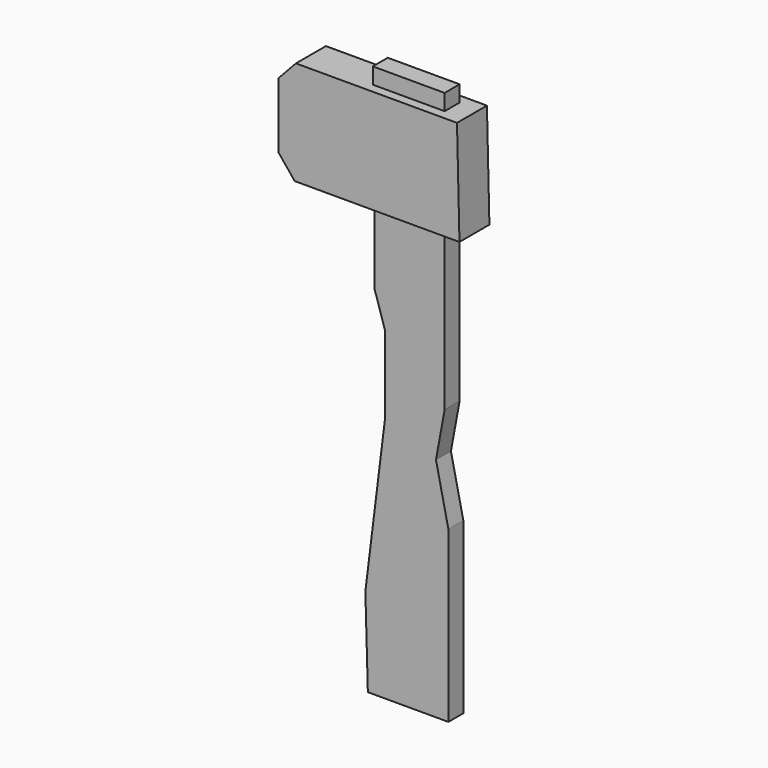
from build123d import *

# Parameters (mm, degrees)
F0_W     = 11.703859
F0_H     = 2.623275
F1_DEPTH = 1.524
F2_DEPTH = 3.048


with BuildPart() as f1:
    # F0 (on Front) → F1 (new body, symmetric)
    with BuildSketch(Plane.XZ):
        Polygon((-6.860883, -3.329546), (-6.457301, -17.656684), (6.659092, -17.656684), (6.659092, 9.988638), (4.641186, 19.271009), (6.05372, 26.939055), (6.05372, 45.100212), (6.05372, 52.76826), (-5.347453, 52.76826), (-5.347453, 40.459029), (-3.632233, 35.010681), (-3.632233, 22.70145), align=None)
        with Locations((0.20179, 71.030318)):
            Rectangle(F0_W, F0_H)
    extrude(amount=F1_DEPTH, both=True)


with BuildPart() as f2:
    # F0 (on Front) → F2 (new body, symmetric)
    with BuildSketch(Plane.XZ):
        Polygon((-17.152207, 52.76826), (-5.347453, 52.76826), (6.05372, 52.76826), (9.685952, 52.76826), (9.282372, 69.718681), (6.05372, 69.718681), (-5.650139, 69.718681), (-16.950415, 69.718681), (-19.775486, 66.691816), (-19.775486, 55.996913), align=None)
    extrude(amount=F2_DEPTH, both=True)


solid = Compound([f1.part, f2.part])
